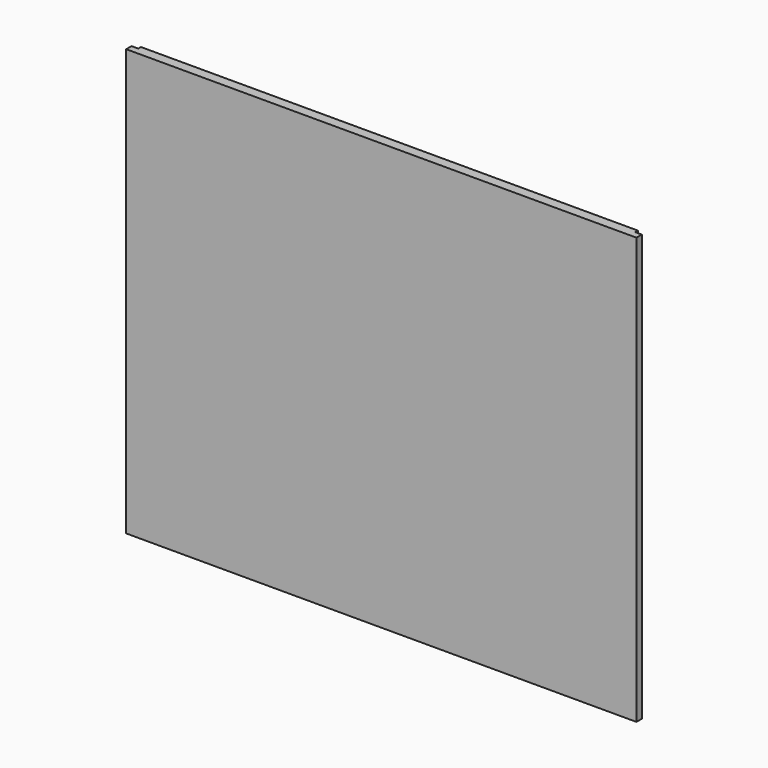
from build123d import *

# Parameters (mm, degrees)
F0_W     = 965.2
F0_H     = 806.45
F1_DEPTH = 19.05
F2_W     = 12.7
F2_H     = 6.35
F3_DEPTH = 806.451
F4_W     = 6.35
F4_H     = 12.7
F5_DEPTH = 965.201


with BuildPart() as f1:
    # F0 (on Front) → F1 (new body)
    with BuildSketch(Plane.XZ):
        with Locations((482.6, 403.225)):
            Rectangle(F0_W, F0_H)
    extrude(amount=F1_DEPTH)

    # F2 (on face) → F3 (cut, through all)
    with BuildSketch(Plane.XY.offset(806.45)):
        with Locations((6.35, -3.175)):
            Rectangle(F2_W, F2_H)
        with Locations((958.85, -3.175)):
            Rectangle(F2_W, F2_H)
    extrude(amount=-F3_DEPTH, mode=Mode.SUBTRACT)

    # F4 (on face) → F5 (cut, through all)
    with BuildSketch(Plane.YZ.offset(965.2)):
        with Locations((-3.175, 6.35)):
            Rectangle(F4_W, F4_H)
    extrude(amount=-F5_DEPTH, mode=Mode.SUBTRACT)


solid = f1.part
